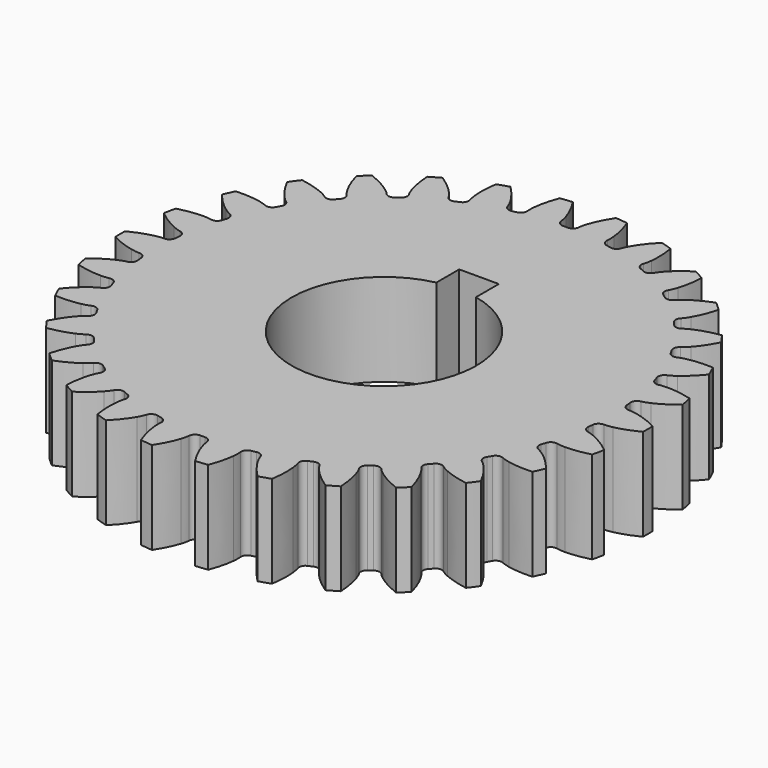
from build123d import *

# Parameters (mm, degrees)
PAD_DEPTH    = 7
POCKET_DEPTH = 7.001


with BuildPart() as part:
    # InvoluteGear → Pad (new body)
    with BuildSketch(Plane.XY):
        with BuildLine():
            add(Edge.make_bspline(
                [(17.603958, -1.185039), (17.672717, -1.18599), (17.880852, -1.181513), (18.228257, -1.109761)],
                knots=[0, 0, 0, 0, 1, 1, 1, 1], degree=3))
            add(Edge.make_bspline(
                [(18.228257, -1.109761), (18.643522, -1.023029), (19.244693, -0.840929), (19.995966, -0.460395)],
                knots=[0, 0, 0, 0, 1, 1, 1, 1], degree=3))
            ThreePointArc((19.995966, -0.460395), (20.000633, 0.000227), (19.99469, 0.460834))
            add(Edge.make_bspline(
                [(19.99469, 0.460834), (19.244693, 0.840929), (18.643522, 1.023029), (18.228257, 1.109761)],
                knots=[0, 0, 0, 0, 1, 1, 1, 1], degree=3))
            add(Edge.make_bspline(
                [(18.228257, 1.109761), (17.880852, 1.181513), (17.672717, 1.18599), (17.604596, 1.185037)],
                knots=[0, 0, 0, 0, 1, 1, 1, 1], degree=3))
            ThreePointArc((17.604596, 1.185037), (17.272153, 1.30162), (17.111445, 1.61512))
            ThreePointArc((17.111445, 1.61512), (17.093345, 1.796583), (17.073321, 1.977843))
            ThreePointArc((17.073321, 1.977843), (17.165158, 2.317635), (17.465652, 2.500926))
            add(Edge.make_bspline(
                [(17.465652, 2.500926), (17.533106, 2.514291), (17.735763, 2.561944), (18.060658, 2.704358)],
                knots=[0, 0, 0, 0, 1, 1, 1, 1], degree=3))
            add(Edge.make_bspline(
                [(18.060658, 2.704358), (18.448815, 2.875533), (18.998989, 3.178644), (19.654728, 3.707061)],
                knots=[0, 0, 0, 0, 1, 1, 1, 1], degree=3))
            ThreePointArc((19.654728, 3.707061), (19.563524, 4.158587), (19.461945, 4.607894))
            add(Edge.make_bspline(
                [(19.461945, 4.607894), (18.649311, 4.823749), (18.023416, 4.876879), (17.599194, 4.875377)],
                knots=[0, 0, 0, 0, 1, 1, 1, 1], degree=3))
            add(Edge.make_bspline(
                [(17.599194, 4.875377), (17.244462, 4.873333), (17.039944, 4.834437), (16.97351, 4.819342)],
                knots=[0, 0, 0, 0, 1, 1, 1, 1], degree=3))
            ThreePointArc((16.97351, 4.819342), (16.624093, 4.864259), (16.401716, 5.137496))
            ThreePointArc((16.401716, 5.137496), (16.346284, 5.31123), (16.289011, 5.484366))
            ThreePointArc((16.289011, 5.484366), (16.308195, 5.835826), (16.564014, 6.077588))
            add(Edge.make_bspline(
                [(16.564014, 6.077588), (16.627215, 6.104686), (16.815536, 6.193431), (17.103722, 6.400283)],
                knots=[0, 0, 0, 0, 1, 1, 1, 1], degree=3))
            add(Edge.make_bspline(
                [(17.103722, 6.400283), (17.447808, 6.64842), (17.922938, 7.059295), (18.454484, 7.7125)],
                knots=[0, 0, 0, 0, 1, 1, 1, 1], degree=3))
            ThreePointArc((18.454484, 7.7125), (18.271395, 8.135198), (18.07862, 8.553566))
            add(Edge.make_bspline(
                [(18.07862, 8.553566), (17.238865, 8.595748), (16.615601, 8.517586), (16.200961, 8.427917)],
                knots=[0, 0, 0, 0, 1, 1, 1, 1], degree=3))
            add(Edge.make_bspline(
                [(16.200961, 8.427917), (15.854406, 8.352164), (15.662444, 8.271597), (15.600601, 8.243019)],
                knots=[0, 0, 0, 0, 1, 1, 1, 1], degree=3))
            ThreePointArc((15.600601, 8.243019), (15.249481, 8.214307), (14.975154, 8.435338))
            ThreePointArc((14.975154, 8.435338), (14.884812, 8.59375), (14.792794, 8.751195))
            ThreePointArc((14.792794, 8.751195), (14.738485, 9.098963), (14.938449, 9.38863))
            add(Edge.make_bspline(
                [(14.938449, 9.38863), (14.994635, 9.428276), (15.160389, 9.554237), (15.399271, 9.816485)],
                knots=[0, 0, 0, 0, 1, 1, 1, 1], degree=3))
            add(Edge.make_bspline(
                [(15.399271, 9.816485), (15.684247, 10.13074), (16.063569, 10.631421), (16.44769, 11.380867)],
                knots=[0, 0, 0, 0, 1, 1, 1, 1], degree=3))
            ThreePointArc((16.44769, 11.380867), (16.180719, 11.756261), (15.905173, 12.125407))
            add(Edge.make_bspline(
                [(15.905173, 12.125407), (15.074998, 11.992072), (14.481605, 11.786034), (14.094669, 11.612116)],
                knots=[0, 0, 0, 0, 1, 1, 1, 1], degree=3))
            add(Edge.make_bspline(
                [(14.094669, 11.612116), (13.771437, 11.465965), (13.600421, 11.347248), (13.54587, 11.306437)],
                knots=[0, 0, 0, 0, 1, 1, 1, 1], degree=3))
            ThreePointArc((13.54587, 11.306437), (13.208392, 11.20535), (12.894106, 11.364515))
            ThreePointArc((12.894106, 11.364515), (12.772802, 11.500682), (12.65006, 11.635555))
            ThreePointArc((12.65006, 11.635555), (12.524633, 11.964433), (12.660002, 12.289344))
            add(Edge.make_bspline(
                [(12.660002, 12.289344), (12.706718, 12.339806), (12.842661, 12.497476), (13.021798, 12.80366)],
                knots=[0, 0, 0, 0, 1, 1, 1, 1], degree=3))
            add(Edge.make_bspline(
                [(13.021798, 12.80366), (13.235209, 13.170297), (13.502145, 13.738902), (13.722054, 14.551834)],
                knots=[0, 0, 0, 0, 1, 1, 1, 1], degree=3))
            ThreePointArc((13.722054, 14.551834), (13.382867, 14.863519), (13.036593, 15.167309))
            add(Edge.make_bspline(
                [(13.036593, 15.167309), (12.252281, 14.864285), (11.714693, 14.539376), (11.372372, 14.28881)],
                knots=[0, 0, 0, 0, 1, 1, 1, 1], degree=3))
            add(Edge.make_bspline(
                [(11.372372, 14.28881), (11.08659, 14.078649), (10.943993, 13.92697), (10.89912, 13.875709)],
                knots=[0, 0, 0, 0, 1, 1, 1, 1], degree=3))
            ThreePointArc((10.89912, 13.875709), (10.590034, 13.706665), (10.249523, 13.797008))
            ThreePointArc((10.249523, 13.797008), (10.102559, 13.90498), (9.954458, 14.011386))
            ThreePointArc((9.954458, 14.011386), (9.763395, 14.306999), (9.828253, 14.652955))
            add(Edge.make_bspline(
                [(9.828253, 14.652955), (9.863456, 14.712027), (9.963647, 14.894515), (10.075209, 15.231253)],
                knots=[0, 0, 0, 0, 1, 1, 1, 1], degree=3))
            add(Edge.make_bspline(
                [(10.075209, 15.231253), (10.207729, 15.634249), (10.350612, 16.245928), (10.396697, 17.086817)],
                knots=[0, 0, 0, 0, 1, 1, 1, 1], degree=3))
            ThreePointArc((10.396697, 17.086817), (10.00012, 17.32117), (9.598251, 17.546327))
            add(Edge.make_bspline(
                [(9.598251, 17.546327), (8.89408, 17.086857), (8.435792, 16.657278), (8.153048, 16.341014)],
                knots=[0, 0, 0, 0, 1, 1, 1, 1], degree=3))
            add(Edge.make_bspline(
                [(8.153048, 16.341014), (7.917205, 16.076029), (7.809261, 15.898016), (7.776026, 15.838546)],
                knots=[0, 0, 0, 0, 1, 1, 1, 1], degree=3))
            ThreePointArc((7.776026, 15.838546), (7.508841, 15.608933), (7.156987, 15.626506))
            ThreePointArc((7.156987, 15.626506), (6.990786, 15.701563), (6.823798, 15.774851))
            ThreePointArc((6.823798, 15.774851), (6.575449, 16.02428), (6.566961, 16.376161))
            add(Edge.make_bspline(
                [(6.566961, 16.376161), (6.589113, 16.441261), (6.649173, 16.640593), (6.688286, 16.993168)],
                knots=[0, 0, 0, 0, 1, 1, 1, 1], degree=3))
            add(Edge.make_bspline(
                [(6.688286, 16.993168), (6.734123, 17.414909), (6.746708, 18.042929), (6.616955, 18.875024)],
                knots=[0, 0, 0, 0, 1, 1, 1, 1], degree=3))
            ThreePointArc((6.616955, 18.875024), (6.18032, 19.021803), (5.74042, 19.158486))
            add(Edge.make_bspline(
                [(5.74042, 19.158486), (5.147166, 18.562652), (4.788207, 18.047176), (4.577396, 17.679038)],
                knots=[0, 0, 0, 0, 1, 1, 1, 1], degree=3))
            add(Edge.make_bspline(
                [(4.577396, 17.679038), (4.401801, 17.370808), (4.333226, 17.174243), (4.313082, 17.109162)],
                knots=[0, 0, 0, 0, 1, 1, 1, 1], degree=3))
            ThreePointArc((4.313082, 17.109162), (4.099475, 16.829017), (3.751656, 16.773051))
            ThreePointArc((3.751656, 16.773051), (3.573482, 16.811912), (3.394906, 16.84888))
            ThreePointArc((3.394906, 16.84888), (3.100124, 17.041224), (3.018662, 17.383651))
            add(Edge.make_bspline(
                [(3.018662, 17.383651), (3.026795, 17.451934), (3.044099, 17.659397), (3.009053, 18.012399)],
                knots=[0, 0, 0, 0, 1, 1, 1, 1], degree=3))
            add(Edge.make_bspline(
                [(3.009053, 18.012399), (2.966203, 18.434455), (2.84794, 19.051367), (2.548021, 19.838302)],
                knots=[0, 0, 0, 0, 1, 1, 1, 1], degree=3))
            ThreePointArc((2.548021, 19.838302), (2.09041, 19.891091), (1.631705, 19.933327))
            add(Edge.make_bspline(
                [(1.631705, 19.933327), (1.175296, 19.227169), (0.931354, 18.648326), (0.80169, 18.244402)],
                knots=[0, 0, 0, 0, 1, 1, 1, 1], degree=3))
            add(Edge.make_bspline(
                [(0.80169, 18.244402), (0.694017, 17.906401), (0.667809, 17.699873), (0.661636, 17.632026)],
                knots=[0, 0, 0, 0, 1, 1, 1, 1], degree=3))
            ThreePointArc((0.661636, 17.632026), (0.510942, 17.313591), (0.18236, 17.186533))
            ThreePointArc((0.18236, 17.186533), (0, 17.1875), (-0.18236, 17.186533))
            ThreePointArc((-0.18236, 17.186533), (-0.510691, 17.313384), (-0.661567, 17.631392))
            add(Edge.make_bspline(
                [(-0.661567, 17.631392), (-0.667809, 17.699873), (-0.694017, 17.906401), (-0.80169, 18.244402)],
                knots=[0, 0, 0, 0, 1, 1, 1, 1], degree=3))
            add(Edge.make_bspline(
                [(-0.80169, 18.244402), (-0.931354, 18.648326), (-1.175296, 19.227169), (-1.632274, 19.934551)],
                knots=[0, 0, 0, 0, 1, 1, 1, 1], degree=3))
            ThreePointArc((-1.632274, 19.934551), (-2.090861, 19.891044), (-2.548324, 19.836987))
            add(Edge.make_bspline(
                [(-2.548324, 19.836987), (-2.84794, 19.051367), (-2.966203, 18.434455), (-3.009053, 18.012399)],
                knots=[0, 0, 0, 0, 1, 1, 1, 1], degree=3))
            add(Edge.make_bspline(
                [(-3.009053, 18.012399), (-3.044099, 17.659397), (-3.026795, 17.451934), (-3.018727, 17.384286)],
                knots=[0, 0, 0, 0, 1, 1, 1, 1], degree=3))
            ThreePointArc((-3.018727, 17.384286), (-3.099921, 17.041478), (-3.394906, 16.84888))
            ThreePointArc((-3.394906, 16.84888), (-3.573482, 16.811912), (-3.751656, 16.773051))
            ThreePointArc((-3.751656, 16.773051), (-4.099186, 16.828867), (-4.312883, 17.108556))
            add(Edge.make_bspline(
                [(-4.312883, 17.108556), (-4.333226, 17.174243), (-4.401801, 17.370808), (-4.577396, 17.679038)],
                knots=[0, 0, 0, 0, 1, 1, 1, 1], degree=3))
            add(Edge.make_bspline(
                [(-4.577396, 17.679038), (-4.788207, 18.047176), (-5.147166, 18.562652), (-5.741232, 19.159564)],
                knots=[0, 0, 0, 0, 1, 1, 1, 1], degree=3))
            ThreePointArc((-5.741232, 19.159564), (-6.180751, 19.021662), (-6.616978, 18.873675))
            add(Edge.make_bspline(
                [(-6.616978, 18.873675), (-6.746708, 18.042929), (-6.734123, 17.414909), (-6.688286, 16.993168)],
                knots=[0, 0, 0, 0, 1, 1, 1, 1], degree=3))
            add(Edge.make_bspline(
                [(-6.688286, 16.993168), (-6.649173, 16.640593), (-6.589113, 16.441261), (-6.567156, 16.376769)],
                knots=[0, 0, 0, 0, 1, 1, 1, 1], degree=3))
            ThreePointArc((-6.567156, 16.376769), (-6.575303, 16.024571), (-6.823798, 15.774851))
            ThreePointArc((-6.823798, 15.774851), (-6.990786, 15.701563), (-7.156987, 15.626506))
            ThreePointArc((-7.156987, 15.626506), (-7.508527, 15.608847), (-7.775705, 15.837994))
            add(Edge.make_bspline(
                [(-7.775705, 15.837994), (-7.809261, 15.898016), (-7.917205, 16.076029), (-8.153048, 16.341014)],
                knots=[0, 0, 0, 0, 1, 1, 1, 1], degree=3))
            add(Edge.make_bspline(
                [(-8.153048, 16.341014), (-8.435792, 16.657278), (-8.89408, 17.086857), (-9.599269, 17.547213)],
                knots=[0, 0, 0, 0, 1, 1, 1, 1], degree=3))
            ThreePointArc((-9.599269, 17.547213), (-10.000513, 17.320943), (-10.396439, 17.085492))
            add(Edge.make_bspline(
                [(-10.396439, 17.085492), (-10.350612, 16.245928), (-10.207729, 15.634249), (-10.075209, 15.231253)],
                knots=[0, 0, 0, 0, 1, 1, 1, 1], degree=3))
            add(Edge.make_bspline(
                [(-10.075209, 15.231253), (-9.963647, 14.894515), (-9.863456, 14.712027), (-9.82857, 14.653509)],
                knots=[0, 0, 0, 0, 1, 1, 1, 1], degree=3))
            ThreePointArc((-9.82857, 14.653509), (-9.763313, 14.307313), (-9.954458, 14.011386))
            ThreePointArc((-9.954458, 14.011386), (-10.102559, 13.90498), (-10.249523, 13.797008))
            ThreePointArc((-10.249523, 13.797008), (-10.58971, 13.706646), (-10.898691, 13.875236))
            add(Edge.make_bspline(
                [(-10.898691, 13.875236), (-10.943993, 13.92697), (-11.08659, 14.078649), (-11.372372, 14.28881)],
                knots=[0, 0, 0, 0, 1, 1, 1, 1], degree=3))
            add(Edge.make_bspline(
                [(-11.372372, 14.28881), (-11.714693, 14.539376), (-12.252281, 14.864285), (-13.037773, 15.167964)],
                knots=[0, 0, 0, 0, 1, 1, 1, 1], degree=3))
            ThreePointArc((-13.037773, 15.167964), (-13.383204, 14.863215), (-13.721526, 14.550592))
            add(Edge.make_bspline(
                [(-13.721526, 14.550592), (-13.502145, 13.738902), (-13.235209, 13.170297), (-13.021798, 12.80366)],
                knots=[0, 0, 0, 0, 1, 1, 1, 1], degree=3))
            add(Edge.make_bspline(
                [(-13.021798, 12.80366), (-12.842661, 12.497476), (-12.706718, 12.339806), (-12.660428, 12.28982)],
                knots=[0, 0, 0, 0, 1, 1, 1, 1], degree=3))
            ThreePointArc((-12.660428, 12.28982), (-12.524618, 11.964757), (-12.65006, 11.635555))
            ThreePointArc((-12.65006, 11.635555), (-12.772802, 11.500682), (-12.894106, 11.364515))
            ThreePointArc((-12.894106, 11.364515), (-13.208071, 11.205398), (-13.545352, 11.306063))
            add(Edge.make_bspline(
                [(-13.545352, 11.306063), (-13.600421, 11.347248), (-13.771437, 11.465965), (-14.094669, 11.612116)],
                knots=[0, 0, 0, 0, 1, 1, 1, 1], degree=3))
            add(Edge.make_bspline(
                [(-14.094669, 11.612116), (-14.481605, 11.786034), (-15.074998, 11.992072), (-15.906463, 12.125802)],
                knots=[0, 0, 0, 0, 1, 1, 1, 1], degree=3))
            ThreePointArc((-15.906463, 12.125802), (-16.180985, 11.755894), (-16.446916, 11.379761))
            add(Edge.make_bspline(
                [(-16.446916, 11.379761), (-16.063569, 10.631421), (-15.684247, 10.13074), (-15.399271, 9.816485)],
                knots=[0, 0, 0, 0, 1, 1, 1, 1], degree=3))
            add(Edge.make_bspline(
                [(-15.399271, 9.816485), (-15.160389, 9.554237), (-14.994635, 9.428276), (-14.938964, 9.389007)],
                knots=[0, 0, 0, 0, 1, 1, 1, 1], degree=3))
            ThreePointArc((-14.938964, 9.389007), (-14.738538, 9.099284), (-14.792794, 8.751195))
            ThreePointArc((-14.792794, 8.751195), (-14.884812, 8.59375), (-14.975154, 8.435338))
            ThreePointArc((-14.975154, 8.435338), (-15.249176, 8.214421), (-15.600017, 8.242762))
            add(Edge.make_bspline(
                [(-15.600017, 8.242762), (-15.662444, 8.271597), (-15.854406, 8.352164), (-16.200961, 8.427917)],
                knots=[0, 0, 0, 0, 1, 1, 1, 1], degree=3))
            add(Edge.make_bspline(
                [(-16.200961, 8.427917), (-16.615601, 8.517586), (-17.238865, 8.595748), (-18.079965, 8.553684)],
                knots=[0, 0, 0, 0, 1, 1, 1, 1], degree=3))
            ThreePointArc((-18.079965, 8.553684), (-18.27158, 8.134783), (-18.453496, 7.71158))
            add(Edge.make_bspline(
                [(-18.453496, 7.71158), (-17.922938, 7.059295), (-17.447808, 6.64842), (-17.103722, 6.400283)],
                knots=[0, 0, 0, 0, 1, 1, 1, 1], degree=3))
            add(Edge.make_bspline(
                [(-17.103722, 6.400283), (-16.815536, 6.193431), (-16.627215, 6.104686), (-16.564597, 6.077849)],
                knots=[0, 0, 0, 0, 1, 1, 1, 1], degree=3))
            ThreePointArc((-16.564597, 6.077849), (-16.308314, 5.836129), (-16.289011, 5.484366))
            ThreePointArc((-16.289011, 5.484366), (-16.346284, 5.31123), (-16.401716, 5.137496))
            ThreePointArc((-16.401716, 5.137496), (-16.623819, 4.864434), (-16.972885, 4.819212))
            add(Edge.make_bspline(
                [(-16.972885, 4.819212), (-17.039944, 4.834437), (-17.244462, 4.873333), (-17.599194, 4.875377)],
                knots=[0, 0, 0, 0, 1, 1, 1, 1], degree=3))
            add(Edge.make_bspline(
                [(-17.599194, 4.875377), (-18.023416, 4.876879), (-18.649311, 4.823749), (-19.463285, 4.60773)],
                knots=[0, 0, 0, 0, 1, 1, 1, 1], degree=3))
            ThreePointArc((-19.463285, 4.60773), (-19.563618, 4.158144), (-19.653571, 3.706366))
            add(Edge.make_bspline(
                [(-19.653571, 3.706366), (-18.998989, 3.178644), (-18.448815, 2.875533), (-18.060658, 2.704358)],
                knots=[0, 0, 0, 0, 1, 1, 1, 1], degree=3))
            add(Edge.make_bspline(
                [(-18.060658, 2.704358), (-17.735763, 2.561944), (-17.533106, 2.514291), (-17.466276, 2.50106)],
                knots=[0, 0, 0, 0, 1, 1, 1, 1], degree=3))
            ThreePointArc((-17.466276, 2.50106), (-17.165337, 2.317906), (-17.073321, 1.977843))
            ThreePointArc((-17.073321, 1.977843), (-17.093345, 1.796583), (-17.111445, 1.61512))
            ThreePointArc((-17.111445, 1.61512), (-17.271922, 1.301848), (-17.603958, 1.185039))
            add(Edge.make_bspline(
                [(-17.603958, 1.185039), (-17.672717, 1.18599), (-17.880852, 1.181513), (-18.228257, 1.109761)],
                knots=[0, 0, 0, 0, 1, 1, 1, 1], degree=3))
            add(Edge.make_bspline(
                [(-18.228257, 1.109761), (-18.643522, 1.023029), (-19.244693, 0.840929), (-19.995966, 0.460395)],
                knots=[0, 0, 0, 0, 1, 1, 1, 1], degree=3))
            ThreePointArc((-19.995966, 0.460395), (-20.000633, -0.000227), (-19.99469, -0.460834))
            add(Edge.make_bspline(
                [(-19.99469, -0.460834), (-19.244693, -0.840929), (-18.643522, -1.023029), (-18.228257, -1.109761)],
                knots=[0, 0, 0, 0, 1, 1, 1, 1], degree=3))
            add(Edge.make_bspline(
                [(-18.228257, -1.109761), (-17.880852, -1.181513), (-17.672717, -1.18599), (-17.604596, -1.185037)],
                knots=[0, 0, 0, 0, 1, 1, 1, 1], degree=3))
            ThreePointArc((-17.604596, -1.185037), (-17.272153, -1.30162), (-17.111445, -1.61512))
            ThreePointArc((-17.111445, -1.61512), (-17.093345, -1.796583), (-17.073321, -1.977843))
            ThreePointArc((-17.073321, -1.977843), (-17.165158, -2.317635), (-17.465652, -2.500926))
            add(Edge.make_bspline(
                [(-17.465652, -2.500926), (-17.533106, -2.514291), (-17.735763, -2.561944), (-18.060658, -2.704358)],
                knots=[0, 0, 0, 0, 1, 1, 1, 1], degree=3))
            add(Edge.make_bspline(
                [(-18.060658, -2.704358), (-18.448815, -2.875533), (-18.998989, -3.178644), (-19.654728, -3.707061)],
                knots=[0, 0, 0, 0, 1, 1, 1, 1], degree=3))
            ThreePointArc((-19.654728, -3.707061), (-19.563524, -4.158587), (-19.461945, -4.607894))
            add(Edge.make_bspline(
                [(-19.461945, -4.607894), (-18.649311, -4.823749), (-18.023416, -4.876879), (-17.599194, -4.875377)],
                knots=[0, 0, 0, 0, 1, 1, 1, 1], degree=3))
            add(Edge.make_bspline(
                [(-17.599194, -4.875377), (-17.244462, -4.873333), (-17.039944, -4.834437), (-16.97351, -4.819342)],
                knots=[0, 0, 0, 0, 1, 1, 1, 1], degree=3))
            ThreePointArc((-16.97351, -4.819342), (-16.624093, -4.864259), (-16.401716, -5.137496))
            ThreePointArc((-16.401716, -5.137496), (-16.346284, -5.31123), (-16.289011, -5.484366))
            ThreePointArc((-16.289011, -5.484366), (-16.308195, -5.835826), (-16.564014, -6.077588))
            add(Edge.make_bspline(
                [(-16.564014, -6.077588), (-16.627215, -6.104686), (-16.815536, -6.193431), (-17.103722, -6.400283)],
                knots=[0, 0, 0, 0, 1, 1, 1, 1], degree=3))
            add(Edge.make_bspline(
                [(-17.103722, -6.400283), (-17.447808, -6.64842), (-17.922938, -7.059295), (-18.454484, -7.7125)],
                knots=[0, 0, 0, 0, 1, 1, 1, 1], degree=3))
            ThreePointArc((-18.454484, -7.7125), (-18.271395, -8.135198), (-18.07862, -8.553566))
            add(Edge.make_bspline(
                [(-18.07862, -8.553566), (-17.238865, -8.595748), (-16.615601, -8.517586), (-16.200961, -8.427917)],
                knots=[0, 0, 0, 0, 1, 1, 1, 1], degree=3))
            add(Edge.make_bspline(
                [(-16.200961, -8.427917), (-15.854406, -8.352164), (-15.662444, -8.271597), (-15.600601, -8.243019)],
                knots=[0, 0, 0, 0, 1, 1, 1, 1], degree=3))
            ThreePointArc((-15.600601, -8.243019), (-15.249481, -8.214307), (-14.975154, -8.435338))
            ThreePointArc((-14.975154, -8.435338), (-14.884812, -8.59375), (-14.792794, -8.751195))
            ThreePointArc((-14.792794, -8.751195), (-14.738485, -9.098963), (-14.938449, -9.38863))
            add(Edge.make_bspline(
                [(-14.938449, -9.38863), (-14.994635, -9.428276), (-15.160389, -9.554237), (-15.399271, -9.816485)],
                knots=[0, 0, 0, 0, 1, 1, 1, 1], degree=3))
            add(Edge.make_bspline(
                [(-15.399271, -9.816485), (-15.684247, -10.13074), (-16.063569, -10.631421), (-16.44769, -11.380867)],
                knots=[0, 0, 0, 0, 1, 1, 1, 1], degree=3))
            ThreePointArc((-16.44769, -11.380867), (-16.180719, -11.756261), (-15.905173, -12.125407))
            add(Edge.make_bspline(
                [(-15.905173, -12.125407), (-15.074998, -11.992072), (-14.481605, -11.786034), (-14.094669, -11.612116)],
                knots=[0, 0, 0, 0, 1, 1, 1, 1], degree=3))
            add(Edge.make_bspline(
                [(-14.094669, -11.612116), (-13.771437, -11.465965), (-13.600421, -11.347248), (-13.54587, -11.306437)],
                knots=[0, 0, 0, 0, 1, 1, 1, 1], degree=3))
            ThreePointArc((-13.54587, -11.306437), (-13.208392, -11.20535), (-12.894106, -11.364515))
            ThreePointArc((-12.894106, -11.364515), (-12.772802, -11.500682), (-12.65006, -11.635555))
            ThreePointArc((-12.65006, -11.635555), (-12.524633, -11.964433), (-12.660002, -12.289344))
            add(Edge.make_bspline(
                [(-12.660002, -12.289344), (-12.706718, -12.339806), (-12.842661, -12.497476), (-13.021798, -12.80366)],
                knots=[0, 0, 0, 0, 1, 1, 1, 1], degree=3))
            add(Edge.make_bspline(
                [(-13.021798, -12.80366), (-13.235209, -13.170297), (-13.502145, -13.738902), (-13.722054, -14.551834)],
                knots=[0, 0, 0, 0, 1, 1, 1, 1], degree=3))
            ThreePointArc((-13.722054, -14.551834), (-13.382867, -14.863519), (-13.036593, -15.167309))
            add(Edge.make_bspline(
                [(-13.036593, -15.167309), (-12.252281, -14.864285), (-11.714693, -14.539376), (-11.372372, -14.28881)],
                knots=[0, 0, 0, 0, 1, 1, 1, 1], degree=3))
            add(Edge.make_bspline(
                [(-11.372372, -14.28881), (-11.08659, -14.078649), (-10.943993, -13.92697), (-10.89912, -13.875709)],
                knots=[0, 0, 0, 0, 1, 1, 1, 1], degree=3))
            ThreePointArc((-10.89912, -13.875709), (-10.590034, -13.706665), (-10.249523, -13.797008))
            ThreePointArc((-10.249523, -13.797008), (-10.102559, -13.90498), (-9.954458, -14.011386))
            ThreePointArc((-9.954458, -14.011386), (-9.763395, -14.306999), (-9.828253, -14.652955))
            add(Edge.make_bspline(
                [(-9.828253, -14.652955), (-9.863456, -14.712027), (-9.963647, -14.894515), (-10.075209, -15.231253)],
                knots=[0, 0, 0, 0, 1, 1, 1, 1], degree=3))
            add(Edge.make_bspline(
                [(-10.075209, -15.231253), (-10.207729, -15.634249), (-10.350612, -16.245928), (-10.396697, -17.086817)],
                knots=[0, 0, 0, 0, 1, 1, 1, 1], degree=3))
            ThreePointArc((-10.396697, -17.086817), (-10.00012, -17.32117), (-9.598251, -17.546327))
            add(Edge.make_bspline(
                [(-9.598251, -17.546327), (-8.89408, -17.086857), (-8.435792, -16.657278), (-8.153048, -16.341014)],
                knots=[0, 0, 0, 0, 1, 1, 1, 1], degree=3))
            add(Edge.make_bspline(
                [(-8.153048, -16.341014), (-7.917205, -16.076029), (-7.809261, -15.898016), (-7.776026, -15.838546)],
                knots=[0, 0, 0, 0, 1, 1, 1, 1], degree=3))
            ThreePointArc((-7.776026, -15.838546), (-7.508841, -15.608933), (-7.156987, -15.626506))
            ThreePointArc((-7.156987, -15.626506), (-6.990786, -15.701563), (-6.823798, -15.774851))
            ThreePointArc((-6.823798, -15.774851), (-6.575449, -16.02428), (-6.566961, -16.376161))
            add(Edge.make_bspline(
                [(-6.566961, -16.376161), (-6.589113, -16.441261), (-6.649173, -16.640593), (-6.688286, -16.993168)],
                knots=[0, 0, 0, 0, 1, 1, 1, 1], degree=3))
            add(Edge.make_bspline(
                [(-6.688286, -16.993168), (-6.734123, -17.414909), (-6.746708, -18.042929), (-6.616955, -18.875024)],
                knots=[0, 0, 0, 0, 1, 1, 1, 1], degree=3))
            ThreePointArc((-6.616955, -18.875024), (-6.18032, -19.021803), (-5.74042, -19.158486))
            add(Edge.make_bspline(
                [(-5.74042, -19.158486), (-5.147166, -18.562652), (-4.788207, -18.047176), (-4.577396, -17.679038)],
                knots=[0, 0, 0, 0, 1, 1, 1, 1], degree=3))
            add(Edge.make_bspline(
                [(-4.577396, -17.679038), (-4.401801, -17.370808), (-4.333226, -17.174243), (-4.313082, -17.109162)],
                knots=[0, 0, 0, 0, 1, 1, 1, 1], degree=3))
            ThreePointArc((-4.313082, -17.109162), (-4.099475, -16.829017), (-3.751656, -16.773051))
            ThreePointArc((-3.751656, -16.773051), (-3.573482, -16.811912), (-3.394906, -16.84888))
            ThreePointArc((-3.394906, -16.84888), (-3.100124, -17.041224), (-3.018662, -17.383651))
            add(Edge.make_bspline(
                [(-3.018662, -17.383651), (-3.026795, -17.451934), (-3.044099, -17.659397), (-3.009053, -18.012399)],
                knots=[0, 0, 0, 0, 1, 1, 1, 1], degree=3))
            add(Edge.make_bspline(
                [(-3.009053, -18.012399), (-2.966203, -18.434455), (-2.84794, -19.051367), (-2.548021, -19.838302)],
                knots=[0, 0, 0, 0, 1, 1, 1, 1], degree=3))
            ThreePointArc((-2.548021, -19.838302), (-2.09041, -19.891091), (-1.631705, -19.933327))
            add(Edge.make_bspline(
                [(-1.631705, -19.933327), (-1.175296, -19.227169), (-0.931354, -18.648326), (-0.80169, -18.244402)],
                knots=[0, 0, 0, 0, 1, 1, 1, 1], degree=3))
            add(Edge.make_bspline(
                [(-0.80169, -18.244402), (-0.694017, -17.906401), (-0.667809, -17.699873), (-0.661636, -17.632026)],
                knots=[0, 0, 0, 0, 1, 1, 1, 1], degree=3))
            ThreePointArc((-0.661636, -17.632026), (-0.510942, -17.313591), (-0.18236, -17.186533))
            ThreePointArc((-0.18236, -17.186533), (0, -17.1875), (0.18236, -17.186533))
            ThreePointArc((0.18236, -17.186533), (0.510691, -17.313384), (0.661567, -17.631392))
            add(Edge.make_bspline(
                [(0.661567, -17.631392), (0.667809, -17.699873), (0.694017, -17.906401), (0.80169, -18.244402)],
                knots=[0, 0, 0, 0, 1, 1, 1, 1], degree=3))
            add(Edge.make_bspline(
                [(0.80169, -18.244402), (0.931354, -18.648326), (1.175296, -19.227169), (1.632274, -19.934551)],
                knots=[0, 0, 0, 0, 1, 1, 1, 1], degree=3))
            ThreePointArc((1.632274, -19.934551), (2.090861, -19.891044), (2.548324, -19.836987))
            add(Edge.make_bspline(
                [(2.548324, -19.836987), (2.84794, -19.051367), (2.966203, -18.434455), (3.009053, -18.012399)],
                knots=[0, 0, 0, 0, 1, 1, 1, 1], degree=3))
            add(Edge.make_bspline(
                [(3.009053, -18.012399), (3.044099, -17.659397), (3.026795, -17.451934), (3.018727, -17.384286)],
                knots=[0, 0, 0, 0, 1, 1, 1, 1], degree=3))
            ThreePointArc((3.018727, -17.384286), (3.099921, -17.041478), (3.394906, -16.84888))
            ThreePointArc((3.394906, -16.84888), (3.573482, -16.811912), (3.751656, -16.773051))
            ThreePointArc((3.751656, -16.773051), (4.099186, -16.828867), (4.312883, -17.108556))
            add(Edge.make_bspline(
                [(4.312883, -17.108556), (4.333226, -17.174243), (4.401801, -17.370808), (4.577396, -17.679038)],
                knots=[0, 0, 0, 0, 1, 1, 1, 1], degree=3))
            add(Edge.make_bspline(
                [(4.577396, -17.679038), (4.788207, -18.047176), (5.147166, -18.562652), (5.741232, -19.159564)],
                knots=[0, 0, 0, 0, 1, 1, 1, 1], degree=3))
            ThreePointArc((5.741232, -19.159564), (6.180751, -19.021662), (6.616978, -18.873675))
            add(Edge.make_bspline(
                [(6.616978, -18.873675), (6.746708, -18.042929), (6.734123, -17.414909), (6.688286, -16.993168)],
                knots=[0, 0, 0, 0, 1, 1, 1, 1], degree=3))
            add(Edge.make_bspline(
                [(6.688286, -16.993168), (6.649173, -16.640593), (6.589113, -16.441261), (6.567156, -16.376769)],
                knots=[0, 0, 0, 0, 1, 1, 1, 1], degree=3))
            ThreePointArc((6.567156, -16.376769), (6.575303, -16.024571), (6.823798, -15.774851))
            ThreePointArc((6.823798, -15.774851), (6.990786, -15.701563), (7.156987, -15.626506))
            ThreePointArc((7.156987, -15.626506), (7.508527, -15.608847), (7.775705, -15.837994))
            add(Edge.make_bspline(
                [(7.775705, -15.837994), (7.809261, -15.898016), (7.917205, -16.076029), (8.153048, -16.341014)],
                knots=[0, 0, 0, 0, 1, 1, 1, 1], degree=3))
            add(Edge.make_bspline(
                [(8.153048, -16.341014), (8.435792, -16.657278), (8.89408, -17.086857), (9.599269, -17.547213)],
                knots=[0, 0, 0, 0, 1, 1, 1, 1], degree=3))
            ThreePointArc((9.599269, -17.547213), (10.000513, -17.320943), (10.396439, -17.085492))
            add(Edge.make_bspline(
                [(10.396439, -17.085492), (10.350612, -16.245928), (10.207729, -15.634249), (10.075209, -15.231253)],
                knots=[0, 0, 0, 0, 1, 1, 1, 1], degree=3))
            add(Edge.make_bspline(
                [(10.075209, -15.231253), (9.963647, -14.894515), (9.863456, -14.712027), (9.82857, -14.653509)],
                knots=[0, 0, 0, 0, 1, 1, 1, 1], degree=3))
            ThreePointArc((9.82857, -14.653509), (9.763313, -14.307313), (9.954458, -14.011386))
            ThreePointArc((9.954458, -14.011386), (10.102559, -13.90498), (10.249523, -13.797008))
            ThreePointArc((10.249523, -13.797008), (10.58971, -13.706646), (10.898691, -13.875236))
            add(Edge.make_bspline(
                [(10.898691, -13.875236), (10.943993, -13.92697), (11.08659, -14.078649), (11.372372, -14.28881)],
                knots=[0, 0, 0, 0, 1, 1, 1, 1], degree=3))
            add(Edge.make_bspline(
                [(11.372372, -14.28881), (11.714693, -14.539376), (12.252281, -14.864285), (13.037773, -15.167964)],
                knots=[0, 0, 0, 0, 1, 1, 1, 1], degree=3))
            ThreePointArc((13.037773, -15.167964), (13.383204, -14.863215), (13.721526, -14.550592))
            add(Edge.make_bspline(
                [(13.721526, -14.550592), (13.502145, -13.738902), (13.235209, -13.170297), (13.021798, -12.80366)],
                knots=[0, 0, 0, 0, 1, 1, 1, 1], degree=3))
            add(Edge.make_bspline(
                [(13.021798, -12.80366), (12.842661, -12.497476), (12.706718, -12.339806), (12.660428, -12.28982)],
                knots=[0, 0, 0, 0, 1, 1, 1, 1], degree=3))
            ThreePointArc((12.660428, -12.28982), (12.524618, -11.964757), (12.65006, -11.635555))
            ThreePointArc((12.65006, -11.635555), (12.772802, -11.500682), (12.894106, -11.364515))
            ThreePointArc((12.894106, -11.364515), (13.208071, -11.205398), (13.545352, -11.306063))
            add(Edge.make_bspline(
                [(13.545352, -11.306063), (13.600421, -11.347248), (13.771437, -11.465965), (14.094669, -11.612116)],
                knots=[0, 0, 0, 0, 1, 1, 1, 1], degree=3))
            add(Edge.make_bspline(
                [(14.094669, -11.612116), (14.481605, -11.786034), (15.074998, -11.992072), (15.906463, -12.125802)],
                knots=[0, 0, 0, 0, 1, 1, 1, 1], degree=3))
            ThreePointArc((15.906463, -12.125802), (16.180985, -11.755894), (16.446916, -11.379761))
            add(Edge.make_bspline(
                [(16.446916, -11.379761), (16.063569, -10.631421), (15.684247, -10.13074), (15.399271, -9.816485)],
                knots=[0, 0, 0, 0, 1, 1, 1, 1], degree=3))
            add(Edge.make_bspline(
                [(15.399271, -9.816485), (15.160389, -9.554237), (14.994635, -9.428276), (14.938964, -9.389007)],
                knots=[0, 0, 0, 0, 1, 1, 1, 1], degree=3))
            ThreePointArc((14.938964, -9.389007), (14.738538, -9.099284), (14.792794, -8.751195))
            ThreePointArc((14.792794, -8.751195), (14.884812, -8.59375), (14.975154, -8.435338))
            ThreePointArc((14.975154, -8.435338), (15.249176, -8.214421), (15.600017, -8.242762))
            add(Edge.make_bspline(
                [(15.600017, -8.242762), (15.662444, -8.271597), (15.854406, -8.352164), (16.200961, -8.427917)],
                knots=[0, 0, 0, 0, 1, 1, 1, 1], degree=3))
            add(Edge.make_bspline(
                [(16.200961, -8.427917), (16.615601, -8.517586), (17.238865, -8.595748), (18.079965, -8.553684)],
                knots=[0, 0, 0, 0, 1, 1, 1, 1], degree=3))
            ThreePointArc((18.079965, -8.553684), (18.27158, -8.134783), (18.453496, -7.71158))
            add(Edge.make_bspline(
                [(18.453496, -7.71158), (17.922938, -7.059295), (17.447808, -6.64842), (17.103722, -6.400283)],
                knots=[0, 0, 0, 0, 1, 1, 1, 1], degree=3))
            add(Edge.make_bspline(
                [(17.103722, -6.400283), (16.815536, -6.193431), (16.627215, -6.104686), (16.564597, -6.077849)],
                knots=[0, 0, 0, 0, 1, 1, 1, 1], degree=3))
            ThreePointArc((16.564597, -6.077849), (16.308314, -5.836129), (16.289011, -5.484366))
            ThreePointArc((16.289011, -5.484366), (16.346284, -5.31123), (16.401716, -5.137496))
            ThreePointArc((16.401716, -5.137496), (16.623819, -4.864434), (16.972885, -4.819212))
            add(Edge.make_bspline(
                [(16.972885, -4.819212), (17.039944, -4.834437), (17.244462, -4.873333), (17.599194, -4.875377)],
                knots=[0, 0, 0, 0, 1, 1, 1, 1], degree=3))
            add(Edge.make_bspline(
                [(17.599194, -4.875377), (18.023416, -4.876879), (18.649311, -4.823749), (19.463285, -4.60773)],
                knots=[0, 0, 0, 0, 1, 1, 1, 1], degree=3))
            ThreePointArc((19.463285, -4.60773), (19.563618, -4.158144), (19.653571, -3.706366))
            add(Edge.make_bspline(
                [(19.653571, -3.706366), (18.998989, -3.178644), (18.448815, -2.875533), (18.060658, -2.704358)],
                knots=[0, 0, 0, 0, 1, 1, 1, 1], degree=3))
            add(Edge.make_bspline(
                [(18.060658, -2.704358), (17.735763, -2.561944), (17.533106, -2.514291), (17.466276, -2.50106)],
                knots=[0, 0, 0, 0, 1, 1, 1, 1], degree=3))
            ThreePointArc((17.466276, -2.50106), (17.165337, -2.317906), (17.073321, -1.977843))
            ThreePointArc((17.073321, -1.977843), (17.093345, -1.796583), (17.111445, -1.61512))
            ThreePointArc((17.111445, -1.61512), (17.271922, -1.301848), (17.603958, -1.185039))
        make_face()
    extrude(amount=PAD_DEPTH)

    # Sketch001 → Pocket (cut, through all)
    with BuildSketch(Plane.XY.offset(7)):
        with BuildLine():
            ThreePointArc((-1.5, 6.837397), (0, -7), (1.5, 6.837397))
            Line((1.5, 9), (1.5, 6.837397))
            Line((-1.5, 9), (1.5, 9))
            Line((-1.5, 9), (-1.5, 6.837397))
        make_face()
    extrude(amount=-POCKET_DEPTH, mode=Mode.SUBTRACT)


solid = part.part
